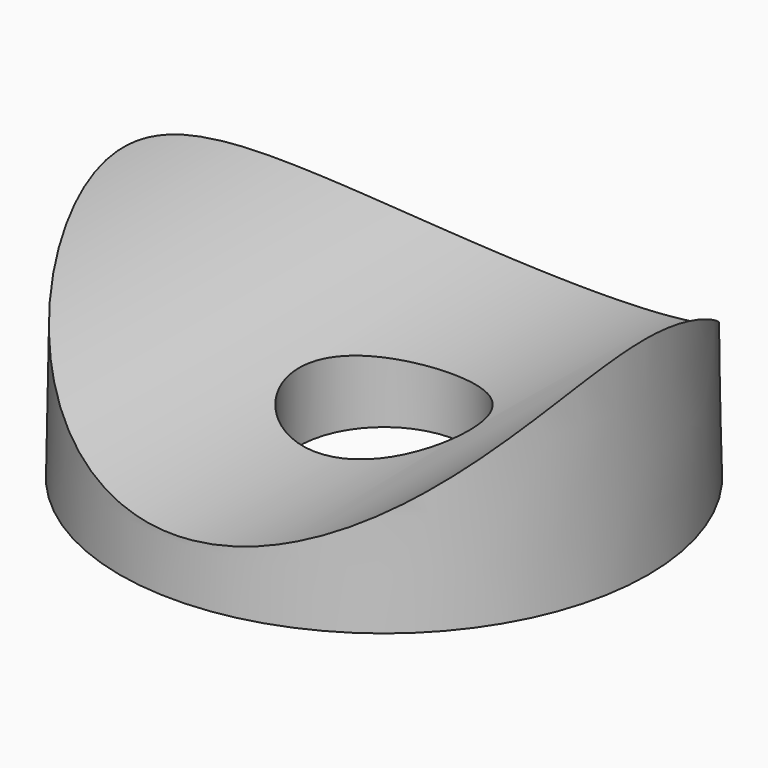
from build123d import *

# Parameters (mm, degrees)
F0_R     = 14
F1_DEPTH = 12
F1_TAPER = 1
F2_R     = 16
F3_DEPTH = 16
F4_R     = 4.5
F5_DEPTH = 5


with BuildPart() as f1:
    # F0 (on Top) → F1 (new body)
    with BuildSketch(Plane.XY):
        Circle(F0_R)
    extrude(amount=F1_DEPTH, taper=F1_TAPER)

    # F2 (on Front) → F3 (cut, symmetric)
    with BuildSketch(Plane.XZ):
        with Locations((0, 19)):
            Circle(F2_R)
    extrude(amount=F3_DEPTH, both=True, mode=Mode.SUBTRACT)

    # F4 (on face) → F5 (cut)
    with BuildSketch(Plane(origin=(0, 0, 0), x_dir=(1, 0, 0), z_dir=(0, 0, -1))):
        Circle(F4_R)
    extrude(amount=-F5_DEPTH, mode=Mode.SUBTRACT)


solid = f1.part
